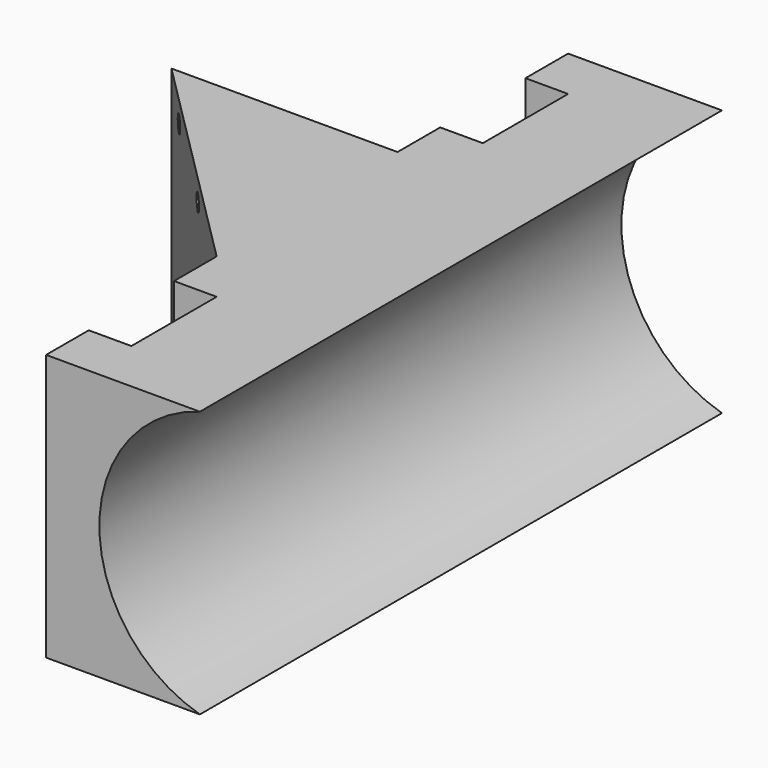
from build123d import *

# Parameters (mm, degrees)
PAD_DEPTH       = 25
SKETCH001_R     = 13
POCKET_DEPTH    = 61.214203
SKETCH002_R     = 0.8
POCKET001_DEPTH = 6


with BuildPart() as part:
    # Sketch → Pad (new body)
    with BuildSketch(Plane.XY):
        Polygon((0, 21.213203), (-21.213203, 21.213203), (0, 0), (0, -5), (4, -5), (4, -15), (0, -15), (0, -20), (20, -20), (20, 41.213203), (0, 41.213203), (0, 36.213203), (4, 36.213203), (4, 26.213203), (0, 26.213203), align=None)
    extrude(amount=PAD_DEPTH)

    # Sketch001 (on Face1 of Pad) → Pocket (cut, through all)
    with BuildSketch(Plane(origin=(0, 41.213203, 0), x_dir=(-1, 0, 0), z_dir=(0, 1, 0))):
        with Locations((-18, 12.5)):
            Circle(SKETCH001_R)
    extrude(amount=-POCKET_DEPTH, mode=Mode.SUBTRACT)

    # Sketch002 (on Face13 of Pocket) → Pocket001 (cut)
    with BuildSketch(Plane(origin=(0, 0, 0), x_dir=(0.707107, -0.707107, 0), z_dir=(-0.707107, -0.707107, 0))):
        with Locations((-25, 23)):
            Circle(SKETCH002_R)
        with Locations((-25, 2)):
            Circle(SKETCH002_R)
        with Locations((-12.5, 23)):
            Circle(SKETCH002_R)
        with Locations((-12.5, 2)):
            Circle(SKETCH002_R)
    extrude(amount=-POCKET001_DEPTH, mode=Mode.SUBTRACT)


solid = part.part
